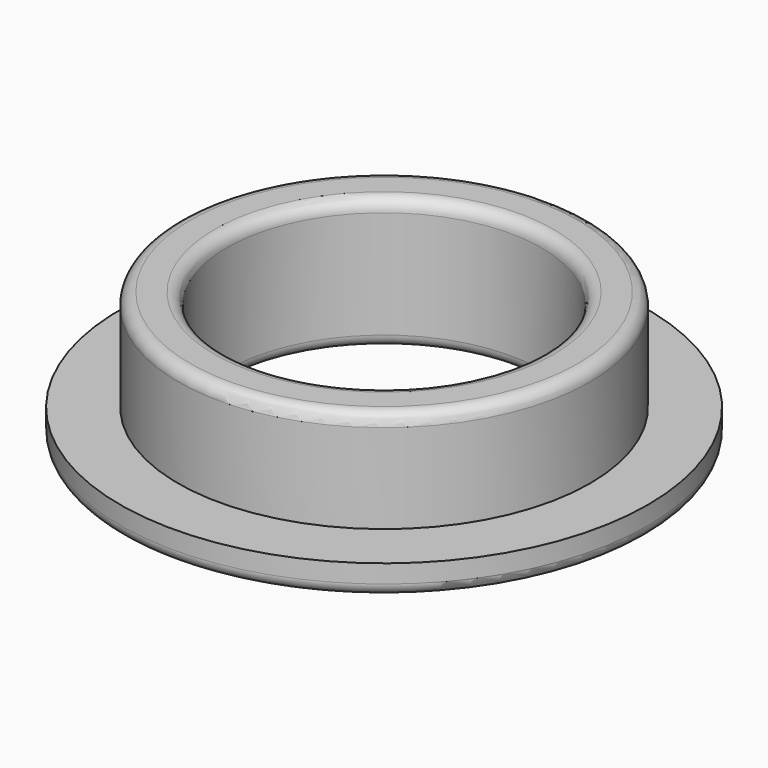
from build123d import *

# Parameters (mm, degrees)
F0_R     = 33.02
F0_R_2   = 19.685
F1_DEPTH = 3.81
F2_R     = 25.781
F2_R_2   = 19.685
F3_DEPTH = 12.7
F4_R     = 1.524


with BuildPart() as f1:
    # F0 (on Top) → F1 (new body)
    with BuildSketch(Plane.XY):
        Circle(F0_R)
        Circle(F0_R_2, mode=Mode.SUBTRACT)
    extrude(amount=F1_DEPTH)

    # F2 (on face) → F3 (join)
    with BuildSketch(Plane.XY.offset(3.81)):
        Circle(F2_R)
        Circle(F2_R_2, mode=Mode.SUBTRACT)
    extrude(amount=F3_DEPTH)

    # F4
    f4_edges = [f1.edges().sort_by_distance(p)[0] for p in [
        (-33.02, 0, 0),
        (-19.685, 0, 0),
        (-25.781, 0, 16.51),
        (-19.685, 0, 16.51),
    ]]
    fillet(f4_edges, radius=F4_R)


solid = f1.part
